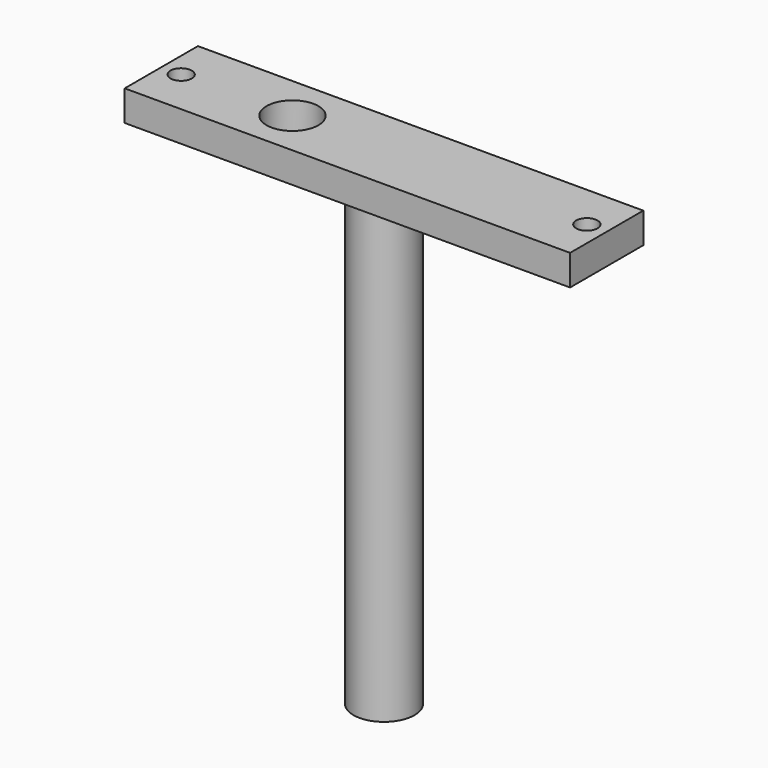
from build123d import *

# Parameters (mm, degrees)
F0_W     = 73
F0_H     = 15
F0_R     = 1.75
F0_R_2   = 4.25
F1_DEPTH = 5
F2_R     = 5
F3_DEPTH = 75


with BuildPart() as f1:
    # F0 (on Top) → F1 (new body)
    with BuildSketch(Plane.XY):
        Rectangle(F0_W, F0_H)
        with Locations((-33.25, 0)):
            Circle(F0_R, mode=Mode.SUBTRACT)
        with Locations((-15, 0)):
            Circle(F0_R_2, mode=Mode.SUBTRACT)
        with Locations((33.25, 0)):
            Circle(F0_R, mode=Mode.SUBTRACT)
    extrude(amount=F1_DEPTH)

    # F2 (on face) → F3 (join)
    with BuildSketch(Plane(origin=(0, 0, 0), x_dir=(1, 0, 0), z_dir=(0, 0, -1))):
        Circle(F2_R)
    extrude(amount=F3_DEPTH)


solid = f1.part
